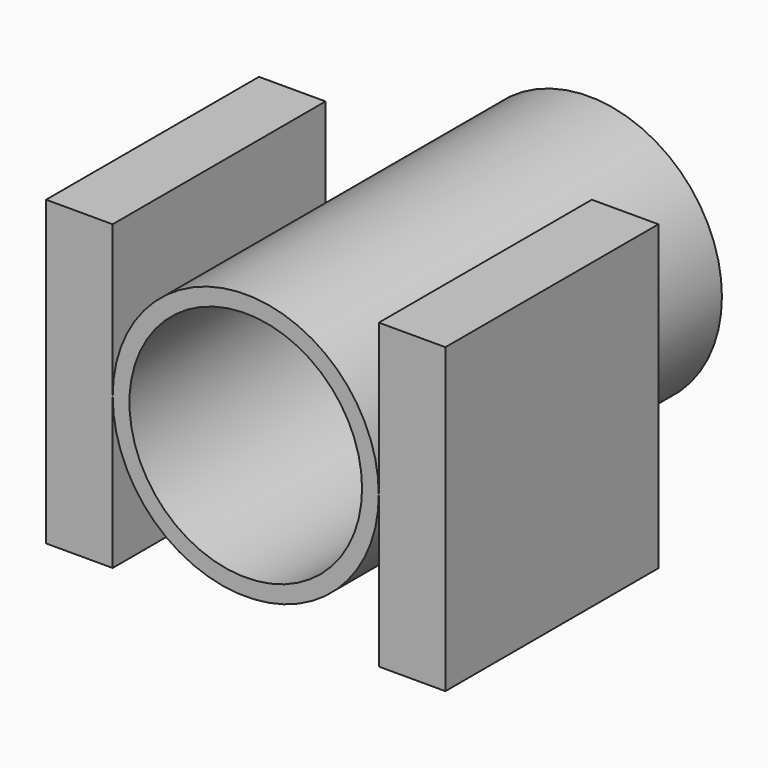
from build123d import *

# Parameters (mm, degrees)
F0_R     = 99.949
F1_DEPTH = 322.199
F3_W     = 199.9996
F3_H     = 227.4824
F4_DEPTH = 49.9872
F6_W     = 199.898
F6_H     = 227.33
F7_DEPTH = 49.9872
F8_R     = 87.376
F9_DEPTH = 322.199


with BuildPart() as f1:
    # F0 (on Front) → F1 (new body)
    with BuildSketch(Plane.XZ):
        Circle(F0_R)
    extrude(amount=-F1_DEPTH)

    # F8 (on Front) → F9 (cut, through all)
    with BuildSketch(Plane.XZ):
        Circle(F8_R)
    extrude(amount=-F9_DEPTH, mode=Mode.SUBTRACT)


with BuildPart() as f4:
    # F3 (on offset) → F4 (new body)
    with BuildSketch(Plane.YZ.offset(99.9998)):
        with Locations((99.9998, 0)):
            Rectangle(F3_W, F3_H)
    extrude(amount=F4_DEPTH)


with BuildPart() as f7:
    # F6 (on offset) → F7 (new body)
    with BuildSketch(Plane.YZ.offset(-99.9998)):
        with Locations((99.949, 0.0762)):
            Rectangle(F6_W, F6_H)
    extrude(amount=-F7_DEPTH)


solid = Compound([f1.part, f4.part, f7.part])
